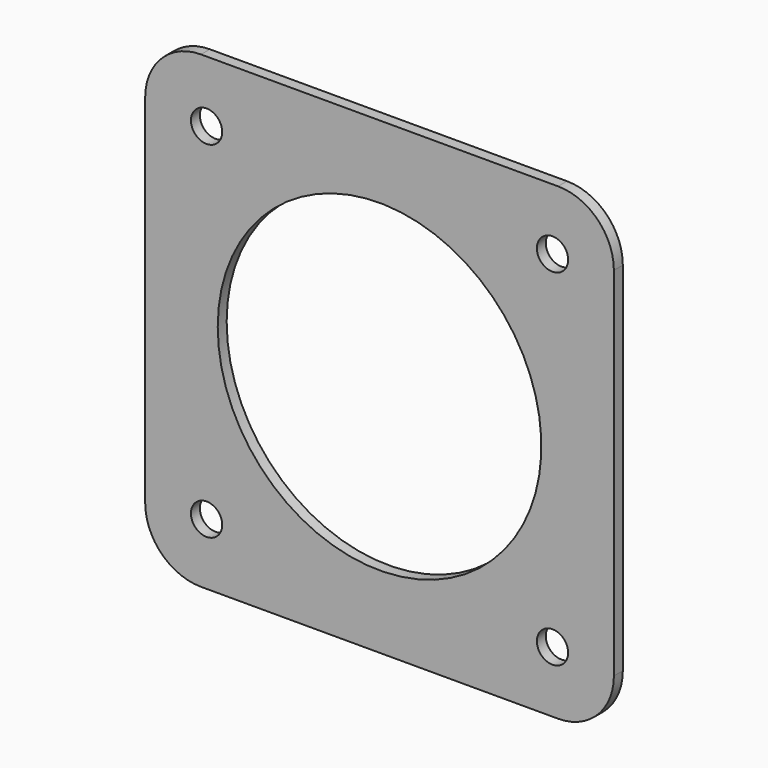
from build123d import *

# Parameters (mm, degrees)
F0_W     = 42
F0_H     = 42
F1_DEPTH = 1
F2_D     = 29
F3_D     = 2.8
F4_R     = 5


with BuildPart() as f1:
    # F0 (on Front) → F1 (new body)
    with BuildSketch(Plane.XZ):
        with Locations((-12.5967783645, -3.5383866066)):
            Rectangle(F0_W, F0_H)
    extrude(amount=F1_DEPTH)

    # F2 (through all)
    with Locations(Plane(origin=(0, 0, 0), x_dir=(1, 0, 0), z_dir=(0, 1, 0))):
        with Locations((-12.5967783645, 3.5383866066)):
            Hole(F2_D / 2)

    # F3 (through all)
    with Locations(Plane(origin=(0, 0, 0), x_dir=(1, 0, 0), z_dir=(0, 1, 0))):
        with Locations((-28.0967783645, -11.9616133934), (2.9032216355, -11.9616133934), (2.9032216355, 19.0383866066), (-28.0967783645, 19.0383866066)):
            Hole(F3_D / 2)

    # F4
    f4_edges = [f1.edges().sort_by_distance(p)[0] for p in [
        (-33.596778, -0.5, 17.461613),
        (-33.596778, -0.5, -24.538387),
        (8.403222, -0.5, 17.461613),
        (8.403222, -0.5, -24.538387),
    ]]
    fillet(f4_edges, radius=F4_R)


solid = f1.part
